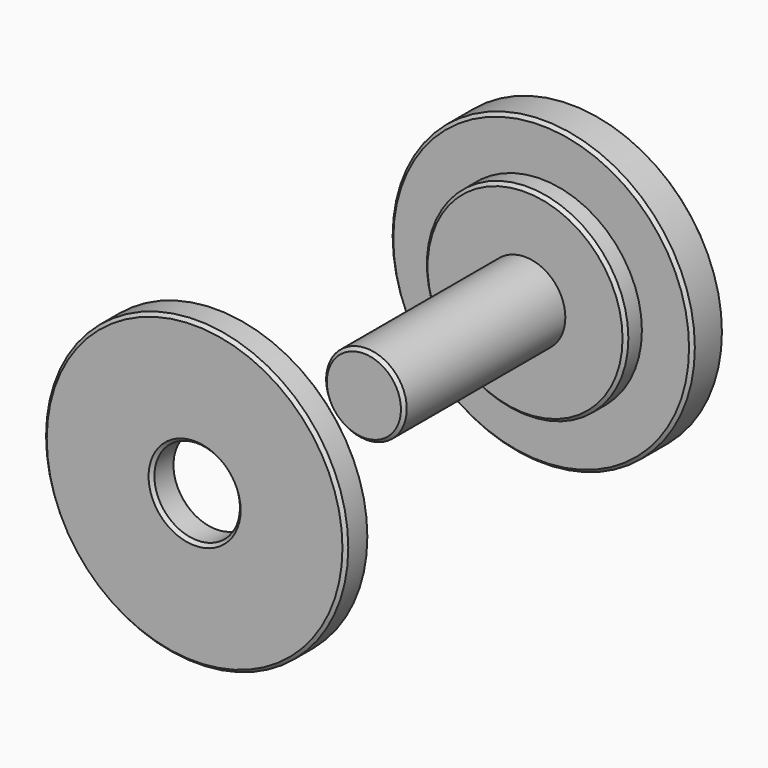
from build123d import *

# Parameters (mm, degrees)
F2_W      = 17.0688
F2_H      = 4.7752
F4_SIZE   = 0.508
F4_2_SIZE = 0.508


with BuildPart() as f1:
    # F0 (on Top) → F1 (revolve)
    with BuildSketch(Plane.XY):
        Polygon((23.8125, 0), (0, 0), (0, -41.275), (6.35, -41.275), (6.35, -9.525), (15.875, -9.525), (15.875, -6.35), (23.8125, -6.35), align=None)
    revolve(axis=Axis((0, 17.466236, 0), (0, -1, 0)))

    # F4
    f4_edges = [f1.edges().sort_by_distance(p)[0] for p in [
        (-23.8125, 0, 0),
        (-23.8125, -6.35, 0),
        (-15.875, -9.525, 0),
        (-6.35, -41.275, 0),
    ]]
    chamfer(f4_edges, length=F4_SIZE)


with BuildPart() as f3:
    # F2 (on Top) → F3 (revolve)
    with BuildSketch(Plane.XY):
        with Locations((15.2781, -72.2376)):
            Rectangle(F2_W, F2_H)
    revolve(axis=Axis((0, -46.904461, 0), (0, -1, 0)))

    # F4#2
    f4_2_edges = [f3.edges().sort_by_distance(p)[0] for p in [
        (-23.8125, -69.85, 0),
        (-23.8125, -74.6252, 0),
        (-6.7437, -74.6252, 0),
        (-6.7437, -69.85, 0),
    ]]
    chamfer(f4_2_edges, length=F4_2_SIZE)


solid = Compound([f1.part, f3.part])
